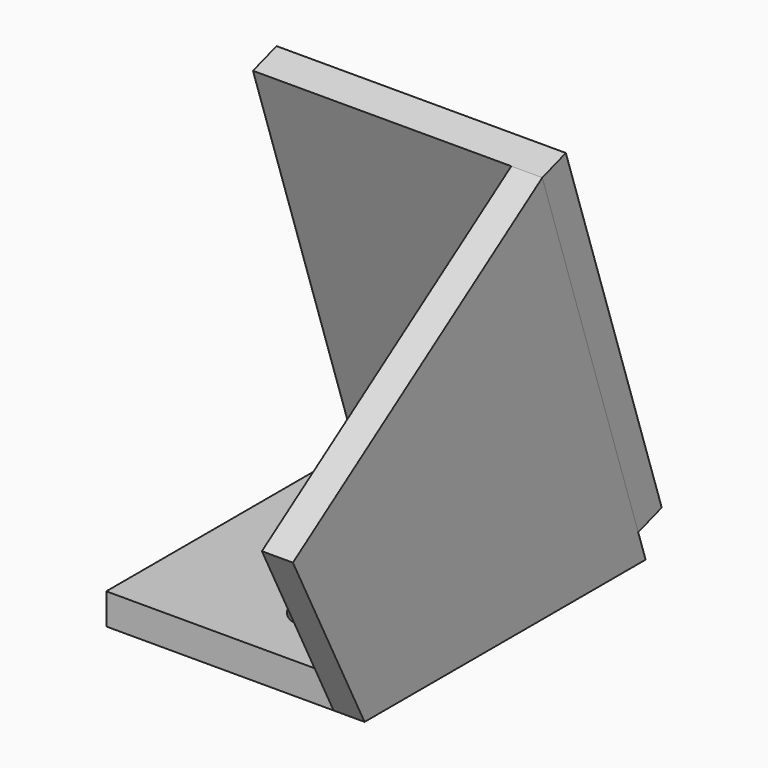
from build123d import *

# Parameters (mm, degrees)
F1_DEPTH = 9.525
F2_W     = 69.85
F2_H     = 107.95
F2_R     = 8.73125
F3_DEPTH = 9.525
F4_W     = 9.525
F4_H     = 116.87314
F5_DEPTH = 9.525


with BuildPart() as f1:
    # F0 (on Right) → F1 (new body)
    with BuildSketch(Plane.YZ):
        Polygon((-107.95, 0), (0, 0), (-39.6875, 119.4943), (-135.484783, 54.280857), align=None)
    extrude(amount=F1_DEPTH)


with BuildPart() as f3:
    # F2 (on Top) → F3 (new body)
    with BuildSketch(Plane.XY):
        with Locations((-34.925, -53.975)):
            Rectangle(F2_W, F2_H)
        with Locations((-22.225, -84.1375)):
            Circle(F2_R, mode=Mode.SUBTRACT)
        with Locations((-22.225, -26.9875)):
            Circle(F2_R, mode=Mode.SUBTRACT)
    extrude(amount=F3_DEPTH)


with BuildPart() as f5:
    # F4 (on face) → F5 (new body)
    with BuildSketch(Plane(origin=(0, 0, 0), x_dir=(-1, 0, 0), z_dir=(0, 0.949026, 0.315199))):
        with Locations((-4.7625, 67.47604)):
            Rectangle(F4_W, F4_H)
        Polygon((79.375, 125.91261), (0, 125.91261), (0, 9.03947), (69.85, 9.03947), (79.375, 9.03947), align=None)
    extrude(amount=F5_DEPTH)


solid = Compound([f1.part, f3.part, f5.part])
